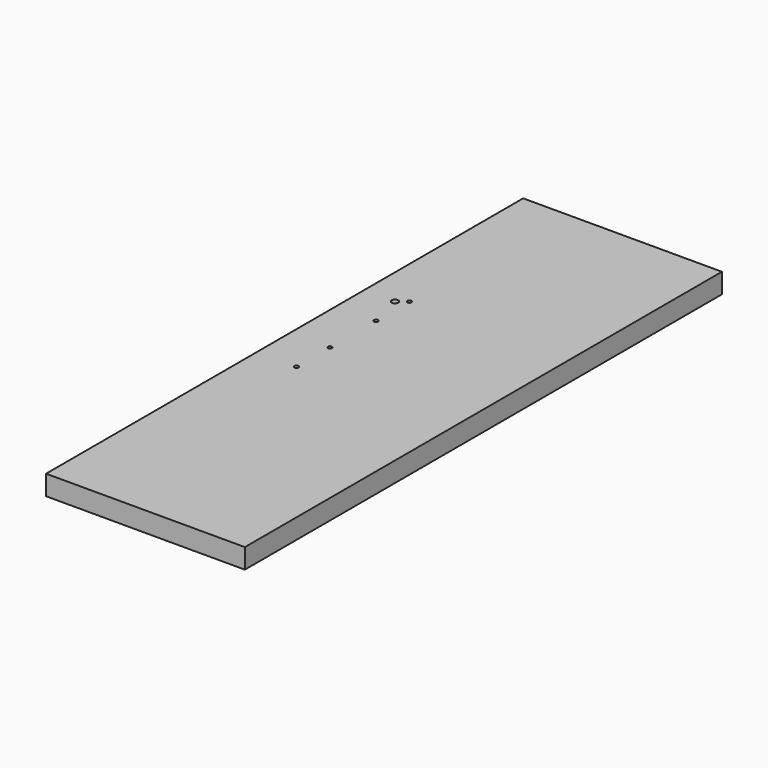
from build123d import *

# Parameters (mm, degrees)
F0_W           = 200
F0_H           = 600
F1_DEPTH       = 20
F3_D           = 4.2
F4_D           = 6.6
F6_D           = 6.6
F6_CBORE_D     = 11.25
F6_CBORE_DEPTH = 6


with BuildPart() as f1:
    # F0 (on Top) → F1 (new body)
    with BuildSketch(Plane.XY):
        Rectangle(F0_W, F0_H)
    extrude(amount=F1_DEPTH)

    # F3 (through all)
    with Locations(Plane.XY.offset(20)):
        with Locations((-60, 107), (-60, 65), (-60, 7), (-60, -35)):
            Hole(F3_D / 2)

    # F4 (through all)
    with Locations(Plane.XY.offset(20)):
        with Locations((-69, 100)):
            Hole(F4_D / 2)

    # F6 (through all)
    with Locations(Plane(origin=(0, 0, 0), x_dir=(1, 0, 0), z_dir=(0, 0, -1))):
        with Locations((-69, -100)):
            CounterBoreHole(F6_D / 2, F6_CBORE_D / 2, F6_CBORE_DEPTH)


solid = f1.part
